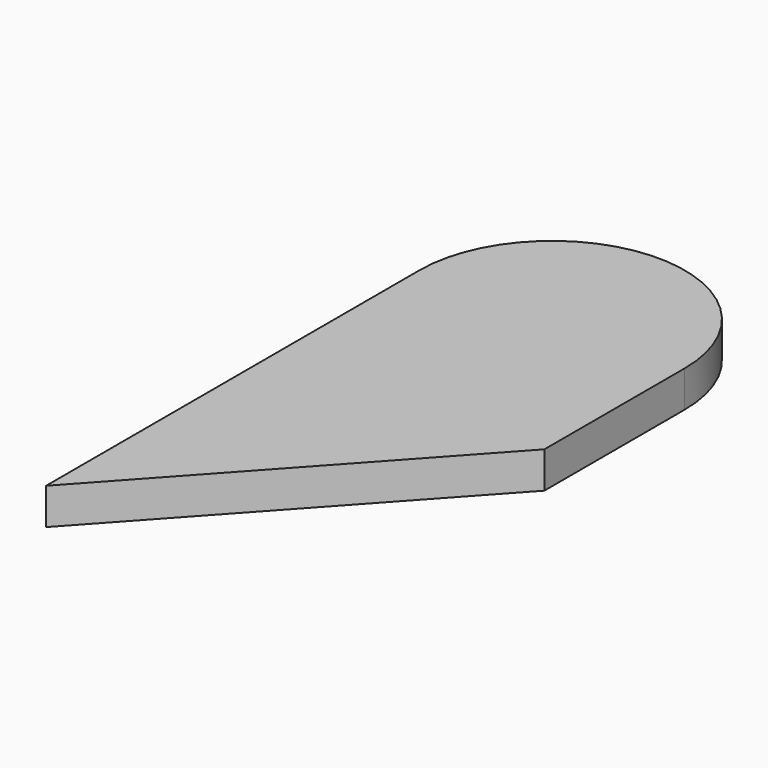
from build123d import *

# Parameters (mm, degrees)
F0_W     = 72.900745
F0_H     = 48.2
F1_DEPTH = 10


with BuildPart() as f1:
    # F0 (on Top) → F1 (new body)
    with BuildSketch(Plane.XY):
        with BuildLine():
            ThreePointArc((20.685012, 42.255733), (-15.765361, 78.706105), (-52.215733, 42.255733))
            Line((-52.215733, 42.255733), (20.685012, 42.255733))
        make_face()
        with Locations((-15.76536, 18.155733)):
            Rectangle(F0_W, F0_H)
        Polygon((20.685012, -5.944267), (-52.215733, -5.944267), (-52.215733, -85.944267), align=None)
    extrude(amount=F1_DEPTH)


solid = f1.part
